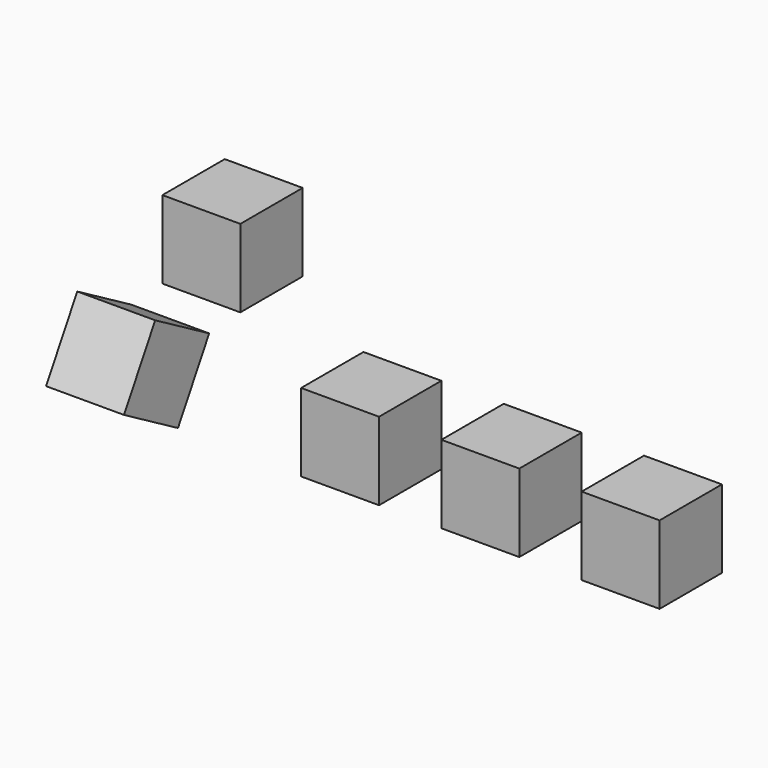
from build123d import *

# Parameters (mm, degrees)
BOX_W                  = 10
BOX_H                  = 10
BOX_DEPTH              = 10
BOX001_W               = 10
BOX001_H               = 10
BOX001_DEPTH           = 10
BOX002_W               = 10
BOX002_H               = 10
BOX002_DEPTH           = 10
BOX003_W               = 10
BOX003_H               = 10
BOX003_DEPTH           = 10
BOX003_PLACEMENT_ANGLE = 60
BOX004_W               = 10
BOX004_H               = 10
BOX004_DEPTH           = 10


with BuildPart() as cube:
    # Box → Box (new body)
    with BuildSketch(Plane(origin=(-37, 24, 0), x_dir=(1, 0, 0), z_dir=(0, 0, 1))):
        with Locations((5, 5)):
            Rectangle(BOX_W, BOX_H)
    extrude(amount=BOX_DEPTH)


with BuildPart() as cube001:
    # Box001 → Box001 (new body)
    with BuildSketch(Plane(origin=(18, 0, 0), x_dir=(1, 0, 0), z_dir=(0, 0, 1))):
        with Locations((5, 5)):
            Rectangle(BOX001_W, BOX001_H)
    extrude(amount=BOX001_DEPTH)


with BuildPart() as cube002:
    # Box002 → Box002 (new body)
    with BuildSketch(Plane(origin=(36, 0, 0), x_dir=(1, 0, 0), z_dir=(0, 0, 1))):
        with Locations((5, 5)):
            Rectangle(BOX002_W, BOX002_H)
    extrude(amount=BOX002_DEPTH)


with BuildPart() as cube003:
    # Box003 → Box003 (new body)
    with BuildSketch(Plane.XY):
        with Locations((5, 5)):
            Rectangle(BOX003_W, BOX003_H)
    extrude(amount=BOX003_DEPTH)


with BuildPart() as cube003_1:
    # Box003 placement: moved
    add(cube003.part.moved(Location((-13, -16, 11))).rotate(Axis((-13, -16, 11), (1, 0, 0)), BOX003_PLACEMENT_ANGLE))


with BuildPart() as cube004:
    # Box004 → Box004 (new body)
    with BuildSketch(Plane.XY):
        with Locations((5, 5)):
            Rectangle(BOX004_W, BOX004_H)
    extrude(amount=BOX004_DEPTH)


solid = Compound([cube.part, cube001.part, cube002.part, cube003_1.part, cube004.part])
